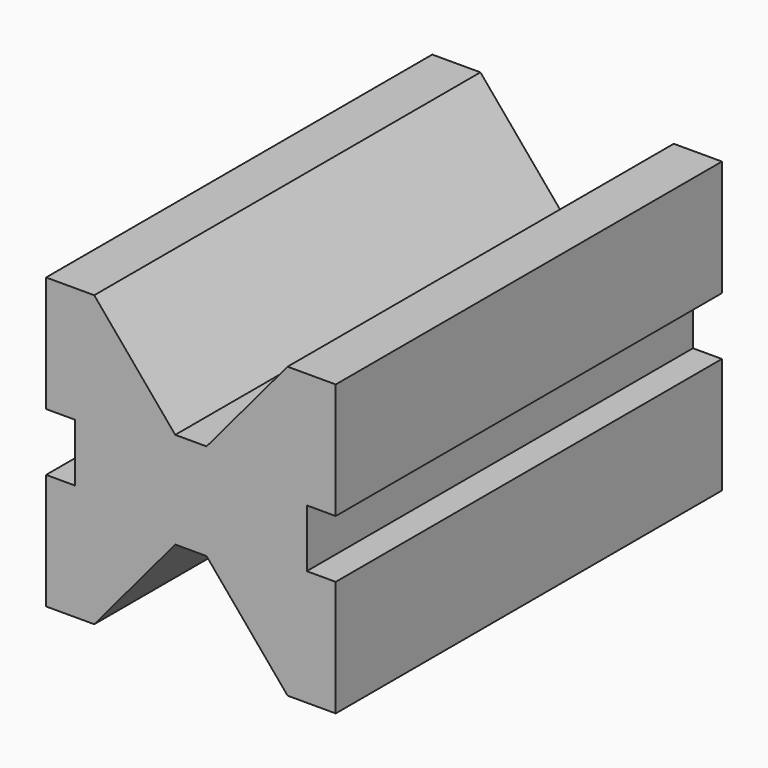
from build123d import *

# Parameters (mm, degrees)
F1_DEPTH = 100


with BuildPart() as f1:
    # F0 (on Front) → F1 (new body)
    with BuildSketch(Plane.XZ):
        Polygon((-20.02512, 30), (-30, 30), (-30, 6), (-24, 6), (-24, -6), (-30, -6), (-30, -30), (-20.02512, -30), (-3.243127, -10), (0, -10), (3.243127, -10), (20.02512, -30), (30, -30), (30, -6), (24, -6), (24, 6), (30, 6), (30, 30), (20.02512, 30), (3.243127, 10), (0, 10), (-3.243127, 10), align=None)
    extrude(amount=-F1_DEPTH)


solid = f1.part
